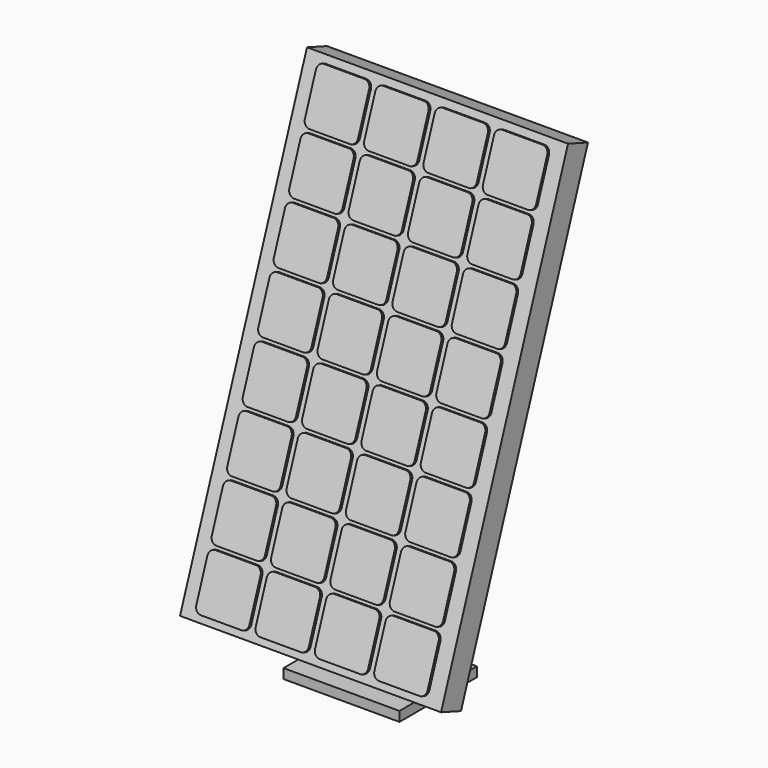
from build123d import *

# Parameters (mm, degrees)
F1_DEPTH      = 342.9
F1_DEPTH_BACK = 342.9
F2_W          = 25.4
F2_H          = 558.8
F3_DEPTH      = 101.6
F3_DEPTH_BACK = 101.6
F4_W          = 304.8
F4_H          = 254
F5_DEPTH      = 25.4
F7_DEPTH      = 6.35


with BuildPart() as f1:
    # F0 (on Right) → F1 (new body, two sides)
    with BuildSketch(Plane.YZ) as f1_sk:
        Polygon((416.990959, 1271.16335), (0, 125.490107), (65.63753, 101.6), (482.628488, 1247.273243), align=None)
    extrude(amount=F1_DEPTH)
    extrude(f1_sk.sketch, amount=-F1_DEPTH_BACK)


with BuildPart() as f3:
    # F2 (on Right) → F3 (new body, two sides)
    with BuildSketch(Plane.YZ) as f3_sk:
        with Locations((190.5, 279.4)):
            Rectangle(F2_W, F2_H)
    extrude(amount=F3_DEPTH)
    extrude(f3_sk.sketch, amount=-F3_DEPTH_BACK)

    # F4 (on face) → F5 (join)
    with BuildSketch(Plane(origin=(0, 0, 0), x_dir=(1, 0, 0), z_dir=(0, 0, -1))):
        with Locations((0, -228.6)):
            Rectangle(F4_W, F4_H)
    extrude(amount=-F5_DEPTH)


with BuildPart() as f7:
    # F6 (on face) → F7 (new body)
    with BuildSketch(Plane(origin=(0, -40.331743, 14.679554), x_dir=(1, 0, 0), z_dir=(0, -0.939693, 0.34202))):
        with BuildLine():
            Line((-181.864, 1318.072128), (-288.036, 1318.072128))
            ThreePointArc((-288.036, 1318.072128), (-299.889938, 1313.162066), (-304.8, 1301.308128))
            Line((-304.8, 1301.308128), (-304.8, 1195.136128))
            ThreePointArc((-304.8, 1195.136128), (-299.889938, 1183.282189), (-288.036, 1178.372128))
            Line((-288.036, 1178.372128), (-181.864, 1178.372128))
            ThreePointArc((-181.864, 1178.372128), (-170.010062, 1183.282189), (-165.1, 1195.136128))
            Line((-165.1, 1195.136128), (-165.1, 1301.308128))
            ThreePointArc((-165.1, 1301.308128), (-170.010062, 1313.162066), (-181.864, 1318.072128))
        make_face()
        with BuildLine():
            Line((-181.864, 1169.159368), (-288.036, 1169.159368))
            ThreePointArc((-288.036, 1169.159368), (-299.889938, 1164.249306), (-304.8, 1152.395368))
            Line((-304.8, 1152.395368), (-304.8, 1046.223368))
            ThreePointArc((-304.8, 1046.223368), (-299.889938, 1034.369429), (-288.036, 1029.459368))
            Line((-288.036, 1029.459368), (-181.864, 1029.459368))
            ThreePointArc((-181.864, 1029.459368), (-170.010062, 1034.369429), (-165.1, 1046.223368))
            Line((-165.1, 1046.223368), (-165.1, 1152.395368))
            ThreePointArc((-165.1, 1152.395368), (-170.010062, 1164.249306), (-181.864, 1169.159368))
        make_face()
        with BuildLine():
            Line((-181.864, 1020.246608), (-288.036, 1020.246608))
            ThreePointArc((-288.036, 1020.246608), (-299.889938, 1015.336546), (-304.8, 1003.482608))
            Line((-304.8, 1003.482608), (-304.8, 897.310608))
            ThreePointArc((-304.8, 897.310608), (-299.889938, 885.456669), (-288.036, 880.546608))
            Line((-288.036, 880.546608), (-181.864, 880.546608))
            ThreePointArc((-181.864, 880.546608), (-170.010062, 885.456669), (-165.1, 897.310608))
            Line((-165.1, 897.310608), (-165.1, 1003.482608))
            ThreePointArc((-165.1, 1003.482608), (-170.010062, 1015.336546), (-181.864, 1020.246608))
        make_face()
        with BuildLine():
            Line((-181.864, 871.333848), (-288.036, 871.333848))
            ThreePointArc((-288.036, 871.333848), (-299.889938, 866.423786), (-304.8, 854.569848))
            Line((-304.8, 854.569848), (-304.8, 748.397848))
            ThreePointArc((-304.8, 748.397848), (-299.889938, 736.543909), (-288.036, 731.633848))
            Line((-288.036, 731.633848), (-181.864, 731.633848))
            ThreePointArc((-181.864, 731.633848), (-170.010062, 736.543909), (-165.1, 748.397848))
            Line((-165.1, 748.397848), (-165.1, 854.569848))
            ThreePointArc((-165.1, 854.569848), (-170.010062, 866.423786), (-181.864, 871.333848))
        make_face()
        with BuildLine():
            Line((-181.864, 722.421088), (-288.036, 722.421088))
            ThreePointArc((-288.036, 722.421088), (-299.889938, 717.511026), (-304.8, 705.657088))
            Line((-304.8, 705.657088), (-304.8, 599.485088))
            ThreePointArc((-304.8, 599.485088), (-299.889938, 587.631149), (-288.036, 582.721088))
            Line((-288.036, 582.721088), (-181.864, 582.721088))
            ThreePointArc((-181.864, 582.721088), (-170.010062, 587.631149), (-165.1, 599.485088))
            Line((-165.1, 599.485088), (-165.1, 705.657088))
            ThreePointArc((-165.1, 705.657088), (-170.010062, 717.511026), (-181.864, 722.421088))
        make_face()
        with BuildLine():
            Line((-181.864, 573.508328), (-288.036, 573.508328))
            ThreePointArc((-288.036, 573.508328), (-299.889938, 568.598266), (-304.8, 556.744328))
            Line((-304.8, 556.744328), (-304.8, 450.572328))
            ThreePointArc((-304.8, 450.572328), (-299.889938, 438.718389), (-288.036, 433.808328))
            Line((-288.036, 433.808328), (-181.864, 433.808328))
            ThreePointArc((-181.864, 433.808328), (-170.010062, 438.718389), (-165.1, 450.572328))
            Line((-165.1, 450.572328), (-165.1, 556.744328))
            ThreePointArc((-165.1, 556.744328), (-170.010062, 568.598266), (-181.864, 573.508328))
        make_face()
        with BuildLine():
            Line((-181.864, 424.595568), (-288.036, 424.595568))
            ThreePointArc((-288.036, 424.595568), (-299.889938, 419.685506), (-304.8, 407.831568))
            Line((-304.8, 407.831568), (-304.8, 301.659568))
            ThreePointArc((-304.8, 301.659568), (-299.889938, 289.805629), (-288.036, 284.895568))
            Line((-288.036, 284.895568), (-181.864, 284.895568))
            ThreePointArc((-181.864, 284.895568), (-170.010062, 289.805629), (-165.1, 301.659568))
            Line((-165.1, 301.659568), (-165.1, 407.831568))
            ThreePointArc((-165.1, 407.831568), (-170.010062, 419.685506), (-181.864, 424.595568))
        make_face()
        with BuildLine():
            Line((-181.864, 275.682808), (-288.036, 275.682808))
            ThreePointArc((-288.036, 275.682808), (-299.889938, 270.772746), (-304.8, 258.918808))
            Line((-304.8, 258.918808), (-304.8, 152.746808))
            ThreePointArc((-304.8, 152.746808), (-299.889938, 140.892869), (-288.036, 135.982808))
            Line((-288.036, 135.982808), (-181.864, 135.982808))
            ThreePointArc((-181.864, 135.982808), (-170.010062, 140.892869), (-165.1, 152.746808))
            Line((-165.1, 152.746808), (-165.1, 258.918808))
            ThreePointArc((-165.1, 258.918808), (-170.010062, 270.772746), (-181.864, 275.682808))
        make_face()
        with BuildLine():
            Line((-25.9014, 1318.072128), (-132.0734, 1318.072128))
            ThreePointArc((-132.0734, 1318.072128), (-143.927338, 1313.162066), (-148.8374, 1301.308128))
            Line((-148.8374, 1301.308128), (-148.8374, 1195.136128))
            ThreePointArc((-148.8374, 1195.136128), (-143.927338, 1183.282189), (-132.0734, 1178.372128))
            Line((-132.0734, 1178.372128), (-25.9014, 1178.372128))
            ThreePointArc((-25.9014, 1178.372128), (-14.047462, 1183.282189), (-9.1374, 1195.136128))
            Line((-9.1374, 1195.136128), (-9.1374, 1301.308128))
            ThreePointArc((-9.1374, 1301.308128), (-14.047462, 1313.162066), (-25.9014, 1318.072128))
        make_face()
        with BuildLine():
            Line((-25.9014, 1169.159368), (-132.0734, 1169.159368))
            ThreePointArc((-132.0734, 1169.159368), (-143.927338, 1164.249306), (-148.8374, 1152.395368))
            Line((-148.8374, 1152.395368), (-148.8374, 1046.223368))
            ThreePointArc((-148.8374, 1046.223368), (-143.927338, 1034.369429), (-132.0734, 1029.459368))
            Line((-132.0734, 1029.459368), (-25.9014, 1029.459368))
            ThreePointArc((-25.9014, 1029.459368), (-14.047462, 1034.369429), (-9.1374, 1046.223368))
            Line((-9.1374, 1046.223368), (-9.1374, 1152.395368))
            ThreePointArc((-9.1374, 1152.395368), (-14.047462, 1164.249306), (-25.9014, 1169.159368))
        make_face()
        with BuildLine():
            Line((-25.9014, 1020.246608), (-132.0734, 1020.246608))
            ThreePointArc((-132.0734, 1020.246608), (-143.927338, 1015.336546), (-148.8374, 1003.482608))
            Line((-148.8374, 1003.482608), (-148.8374, 897.310608))
            ThreePointArc((-148.8374, 897.310608), (-143.927338, 885.456669), (-132.0734, 880.546608))
            Line((-132.0734, 880.546608), (-25.9014, 880.546608))
            ThreePointArc((-25.9014, 880.546608), (-14.047462, 885.456669), (-9.1374, 897.310608))
            Line((-9.1374, 897.310608), (-9.1374, 1003.482608))
            ThreePointArc((-9.1374, 1003.482608), (-14.047462, 1015.336546), (-25.9014, 1020.246608))
        make_face()
        with BuildLine():
            Line((-25.9014, 871.333848), (-132.0734, 871.333848))
            ThreePointArc((-132.0734, 871.333848), (-143.927338, 866.423786), (-148.8374, 854.569848))
            Line((-148.8374, 854.569848), (-148.8374, 748.397848))
            ThreePointArc((-148.8374, 748.397848), (-143.927338, 736.543909), (-132.0734, 731.633848))
            Line((-132.0734, 731.633848), (-25.9014, 731.633848))
            ThreePointArc((-25.9014, 731.633848), (-14.047462, 736.543909), (-9.1374, 748.397848))
            Line((-9.1374, 748.397848), (-9.1374, 854.569848))
            ThreePointArc((-9.1374, 854.569848), (-14.047462, 866.423786), (-25.9014, 871.333848))
        make_face()
        with BuildLine():
            Line((-25.9014, 722.421088), (-132.0734, 722.421088))
            ThreePointArc((-132.0734, 722.421088), (-143.927338, 717.511026), (-148.8374, 705.657088))
            Line((-148.8374, 705.657088), (-148.8374, 599.485088))
            ThreePointArc((-148.8374, 599.485088), (-143.927338, 587.631149), (-132.0734, 582.721088))
            Line((-132.0734, 582.721088), (-25.9014, 582.721088))
            ThreePointArc((-25.9014, 582.721088), (-14.047462, 587.631149), (-9.1374, 599.485088))
            Line((-9.1374, 599.485088), (-9.1374, 705.657088))
            ThreePointArc((-9.1374, 705.657088), (-14.047462, 717.511026), (-25.9014, 722.421088))
        make_face()
        with BuildLine():
            Line((-25.9014, 573.508328), (-132.0734, 573.508328))
            ThreePointArc((-132.0734, 573.508328), (-143.927338, 568.598266), (-148.8374, 556.744328))
            Line((-148.8374, 556.744328), (-148.8374, 450.572328))
            ThreePointArc((-148.8374, 450.572328), (-143.927338, 438.718389), (-132.0734, 433.808328))
            Line((-132.0734, 433.808328), (-25.9014, 433.808328))
            ThreePointArc((-25.9014, 433.808328), (-14.047462, 438.718389), (-9.1374, 450.572328))
            Line((-9.1374, 450.572328), (-9.1374, 556.744328))
            ThreePointArc((-9.1374, 556.744328), (-14.047462, 568.598266), (-25.9014, 573.508328))
        make_face()
        with BuildLine():
            Line((-25.9014, 424.595568), (-132.0734, 424.595568))
            ThreePointArc((-132.0734, 424.595568), (-143.927338, 419.685506), (-148.8374, 407.831568))
            Line((-148.8374, 407.831568), (-148.8374, 301.659568))
            ThreePointArc((-148.8374, 301.659568), (-143.927338, 289.805629), (-132.0734, 284.895568))
            Line((-132.0734, 284.895568), (-25.9014, 284.895568))
            ThreePointArc((-25.9014, 284.895568), (-14.047462, 289.805629), (-9.1374, 301.659568))
            Line((-9.1374, 301.659568), (-9.1374, 407.831568))
            ThreePointArc((-9.1374, 407.831568), (-14.047462, 419.685506), (-25.9014, 424.595568))
        make_face()
        with BuildLine():
            Line((-25.9014, 275.682808), (-132.0734, 275.682808))
            ThreePointArc((-132.0734, 275.682808), (-143.927338, 270.772746), (-148.8374, 258.918808))
            Line((-148.8374, 258.918808), (-148.8374, 152.746808))
            ThreePointArc((-148.8374, 152.746808), (-143.927338, 140.892869), (-132.0734, 135.982808))
            Line((-132.0734, 135.982808), (-25.9014, 135.982808))
            ThreePointArc((-25.9014, 135.982808), (-14.047462, 140.892869), (-9.1374, 152.746808))
            Line((-9.1374, 152.746808), (-9.1374, 258.918808))
            ThreePointArc((-9.1374, 258.918808), (-14.047462, 270.772746), (-25.9014, 275.682808))
        make_face()
        with BuildLine():
            Line((130.0612, 1318.072128), (23.8892, 1318.072128))
            ThreePointArc((23.8892, 1318.072128), (12.035262, 1313.162066), (7.1252, 1301.308128))
            Line((7.1252, 1301.308128), (7.1252, 1195.136128))
            ThreePointArc((7.1252, 1195.136128), (12.035262, 1183.282189), (23.8892, 1178.372128))
            Line((23.8892, 1178.372128), (130.0612, 1178.372128))
            ThreePointArc((130.0612, 1178.372128), (141.915138, 1183.282189), (146.8252, 1195.136128))
            Line((146.8252, 1195.136128), (146.8252, 1301.308128))
            ThreePointArc((146.8252, 1301.308128), (141.915138, 1313.162066), (130.0612, 1318.072128))
        make_face()
        with BuildLine():
            Line((130.0612, 1169.159368), (23.8892, 1169.159368))
            ThreePointArc((23.8892, 1169.159368), (12.035262, 1164.249306), (7.1252, 1152.395368))
            Line((7.1252, 1152.395368), (7.1252, 1046.223368))
            ThreePointArc((7.1252, 1046.223368), (12.035262, 1034.369429), (23.8892, 1029.459368))
            Line((23.8892, 1029.459368), (130.0612, 1029.459368))
            ThreePointArc((130.0612, 1029.459368), (141.915138, 1034.369429), (146.8252, 1046.223368))
            Line((146.8252, 1046.223368), (146.8252, 1152.395368))
            ThreePointArc((146.8252, 1152.395368), (141.915138, 1164.249306), (130.0612, 1169.159368))
        make_face()
        with BuildLine():
            Line((130.0612, 1020.246608), (23.8892, 1020.246608))
            ThreePointArc((23.8892, 1020.246608), (12.035262, 1015.336546), (7.1252, 1003.482608))
            Line((7.1252, 1003.482608), (7.1252, 897.310608))
            ThreePointArc((7.1252, 897.310608), (12.035262, 885.456669), (23.8892, 880.546608))
            Line((23.8892, 880.546608), (130.0612, 880.546608))
            ThreePointArc((130.0612, 880.546608), (141.915138, 885.456669), (146.8252, 897.310608))
            Line((146.8252, 897.310608), (146.8252, 1003.482608))
            ThreePointArc((146.8252, 1003.482608), (141.915138, 1015.336546), (130.0612, 1020.246608))
        make_face()
        with BuildLine():
            Line((130.0612, 871.333848), (23.8892, 871.333848))
            ThreePointArc((23.8892, 871.333848), (12.035262, 866.423786), (7.1252, 854.569848))
            Line((7.1252, 854.569848), (7.1252, 748.397848))
            ThreePointArc((7.1252, 748.397848), (12.035262, 736.543909), (23.8892, 731.633848))
            Line((23.8892, 731.633848), (130.0612, 731.633848))
            ThreePointArc((130.0612, 731.633848), (141.915138, 736.543909), (146.8252, 748.397848))
            Line((146.8252, 748.397848), (146.8252, 854.569848))
            ThreePointArc((146.8252, 854.569848), (141.915138, 866.423786), (130.0612, 871.333848))
        make_face()
        with BuildLine():
            Line((130.0612, 722.421088), (23.8892, 722.421088))
            ThreePointArc((23.8892, 722.421088), (12.035262, 717.511026), (7.1252, 705.657088))
            Line((7.1252, 705.657088), (7.1252, 599.485088))
            ThreePointArc((7.1252, 599.485088), (12.035262, 587.631149), (23.8892, 582.721088))
            Line((23.8892, 582.721088), (130.0612, 582.721088))
            ThreePointArc((130.0612, 582.721088), (141.915138, 587.631149), (146.8252, 599.485088))
            Line((146.8252, 599.485088), (146.8252, 705.657088))
            ThreePointArc((146.8252, 705.657088), (141.915138, 717.511026), (130.0612, 722.421088))
        make_face()
        with BuildLine():
            Line((130.0612, 573.508328), (23.8892, 573.508328))
            ThreePointArc((23.8892, 573.508328), (12.035262, 568.598266), (7.1252, 556.744328))
            Line((7.1252, 556.744328), (7.1252, 450.572328))
            ThreePointArc((7.1252, 450.572328), (12.035262, 438.718389), (23.8892, 433.808328))
            Line((23.8892, 433.808328), (130.0612, 433.808328))
            ThreePointArc((130.0612, 433.808328), (141.915138, 438.718389), (146.8252, 450.572328))
            Line((146.8252, 450.572328), (146.8252, 556.744328))
            ThreePointArc((146.8252, 556.744328), (141.915138, 568.598266), (130.0612, 573.508328))
        make_face()
        with BuildLine():
            Line((130.0612, 424.595568), (23.8892, 424.595568))
            ThreePointArc((23.8892, 424.595568), (12.035262, 419.685506), (7.1252, 407.831568))
            Line((7.1252, 407.831568), (7.1252, 301.659568))
            ThreePointArc((7.1252, 301.659568), (12.035262, 289.805629), (23.8892, 284.895568))
            Line((23.8892, 284.895568), (130.0612, 284.895568))
            ThreePointArc((130.0612, 284.895568), (141.915138, 289.805629), (146.8252, 301.659568))
            Line((146.8252, 301.659568), (146.8252, 407.831568))
            ThreePointArc((146.8252, 407.831568), (141.915138, 419.685506), (130.0612, 424.595568))
        make_face()
        with BuildLine():
            Line((130.0612, 275.682808), (23.8892, 275.682808))
            ThreePointArc((23.8892, 275.682808), (12.035262, 270.772746), (7.1252, 258.918808))
            Line((7.1252, 258.918808), (7.1252, 152.746808))
            ThreePointArc((7.1252, 152.746808), (12.035262, 140.892869), (23.8892, 135.982808))
            Line((23.8892, 135.982808), (130.0612, 135.982808))
            ThreePointArc((130.0612, 135.982808), (141.915138, 140.892869), (146.8252, 152.746808))
            Line((146.8252, 152.746808), (146.8252, 258.918808))
            ThreePointArc((146.8252, 258.918808), (141.915138, 270.772746), (130.0612, 275.682808))
        make_face()
        with BuildLine():
            Line((286.0238, 1318.072128), (179.8518, 1318.072128))
            ThreePointArc((179.8518, 1318.072128), (167.997862, 1313.162066), (163.0878, 1301.308128))
            Line((163.0878, 1301.308128), (163.0878, 1195.136128))
            ThreePointArc((163.0878, 1195.136128), (167.997862, 1183.282189), (179.8518, 1178.372128))
            Line((179.8518, 1178.372128), (286.0238, 1178.372128))
            ThreePointArc((286.0238, 1178.372128), (297.877738, 1183.282189), (302.7878, 1195.136128))
            Line((302.7878, 1195.136128), (302.7878, 1301.308128))
            ThreePointArc((302.7878, 1301.308128), (297.877738, 1313.162066), (286.0238, 1318.072128))
        make_face()
        with BuildLine():
            Line((286.0238, 1169.159368), (179.8518, 1169.159368))
            ThreePointArc((179.8518, 1169.159368), (167.997862, 1164.249306), (163.0878, 1152.395368))
            Line((163.0878, 1152.395368), (163.0878, 1046.223368))
            ThreePointArc((163.0878, 1046.223368), (167.997862, 1034.369429), (179.8518, 1029.459368))
            Line((179.8518, 1029.459368), (286.0238, 1029.459368))
            ThreePointArc((286.0238, 1029.459368), (297.877738, 1034.369429), (302.7878, 1046.223368))
            Line((302.7878, 1046.223368), (302.7878, 1152.395368))
            ThreePointArc((302.7878, 1152.395368), (297.877738, 1164.249306), (286.0238, 1169.159368))
        make_face()
        with BuildLine():
            Line((286.0238, 1020.246608), (179.8518, 1020.246608))
            ThreePointArc((179.8518, 1020.246608), (167.997862, 1015.336546), (163.0878, 1003.482608))
            Line((163.0878, 1003.482608), (163.0878, 897.310608))
            ThreePointArc((163.0878, 897.310608), (167.997862, 885.456669), (179.8518, 880.546608))
            Line((179.8518, 880.546608), (286.0238, 880.546608))
            ThreePointArc((286.0238, 880.546608), (297.877738, 885.456669), (302.7878, 897.310608))
            Line((302.7878, 897.310608), (302.7878, 1003.482608))
            ThreePointArc((302.7878, 1003.482608), (297.877738, 1015.336546), (286.0238, 1020.246608))
        make_face()
        with BuildLine():
            Line((286.0238, 871.333848), (179.8518, 871.333848))
            ThreePointArc((179.8518, 871.333848), (167.997862, 866.423786), (163.0878, 854.569848))
            Line((163.0878, 854.569848), (163.0878, 748.397848))
            ThreePointArc((163.0878, 748.397848), (167.997862, 736.543909), (179.8518, 731.633848))
            Line((179.8518, 731.633848), (286.0238, 731.633848))
            ThreePointArc((286.0238, 731.633848), (297.877738, 736.543909), (302.7878, 748.397848))
            Line((302.7878, 748.397848), (302.7878, 854.569848))
            ThreePointArc((302.7878, 854.569848), (297.877738, 866.423786), (286.0238, 871.333848))
        make_face()
        with BuildLine():
            Line((286.0238, 722.421088), (179.8518, 722.421088))
            ThreePointArc((179.8518, 722.421088), (167.997862, 717.511026), (163.0878, 705.657088))
            Line((163.0878, 705.657088), (163.0878, 599.485088))
            ThreePointArc((163.0878, 599.485088), (167.997862, 587.631149), (179.8518, 582.721088))
            Line((179.8518, 582.721088), (286.0238, 582.721088))
            ThreePointArc((286.0238, 582.721088), (297.877738, 587.631149), (302.7878, 599.485088))
            Line((302.7878, 599.485088), (302.7878, 705.657088))
            ThreePointArc((302.7878, 705.657088), (297.877738, 717.511026), (286.0238, 722.421088))
        make_face()
        with BuildLine():
            Line((286.0238, 573.508328), (179.8518, 573.508328))
            ThreePointArc((179.8518, 573.508328), (167.997862, 568.598266), (163.0878, 556.744328))
            Line((163.0878, 556.744328), (163.0878, 450.572328))
            ThreePointArc((163.0878, 450.572328), (167.997862, 438.718389), (179.8518, 433.808328))
            Line((179.8518, 433.808328), (286.0238, 433.808328))
            ThreePointArc((286.0238, 433.808328), (297.877738, 438.718389), (302.7878, 450.572328))
            Line((302.7878, 450.572328), (302.7878, 556.744328))
            ThreePointArc((302.7878, 556.744328), (297.877738, 568.598266), (286.0238, 573.508328))
        make_face()
        with BuildLine():
            Line((286.0238, 424.595568), (179.8518, 424.595568))
            ThreePointArc((179.8518, 424.595568), (167.997862, 419.685506), (163.0878, 407.831568))
            Line((163.0878, 407.831568), (163.0878, 301.659568))
            ThreePointArc((163.0878, 301.659568), (167.997862, 289.805629), (179.8518, 284.895568))
            Line((179.8518, 284.895568), (286.0238, 284.895568))
            ThreePointArc((286.0238, 284.895568), (297.877738, 289.805629), (302.7878, 301.659568))
            Line((302.7878, 301.659568), (302.7878, 407.831568))
            ThreePointArc((302.7878, 407.831568), (297.877738, 419.685506), (286.0238, 424.595568))
        make_face()
        with BuildLine():
            Line((286.0238, 275.682808), (179.8518, 275.682808))
            ThreePointArc((179.8518, 275.682808), (167.997862, 270.772746), (163.0878, 258.918808))
            Line((163.0878, 258.918808), (163.0878, 152.746808))
            ThreePointArc((163.0878, 152.746808), (167.997862, 140.892869), (179.8518, 135.982808))
            Line((179.8518, 135.982808), (286.0238, 135.982808))
            ThreePointArc((286.0238, 135.982808), (297.877738, 140.892869), (302.7878, 152.746808))
            Line((302.7878, 152.746808), (302.7878, 258.918808))
            ThreePointArc((302.7878, 258.918808), (297.877738, 270.772746), (286.0238, 275.682808))
        make_face()
    extrude(amount=F7_DEPTH)


solid = Compound([f1.part, f3.part, f7.part])
